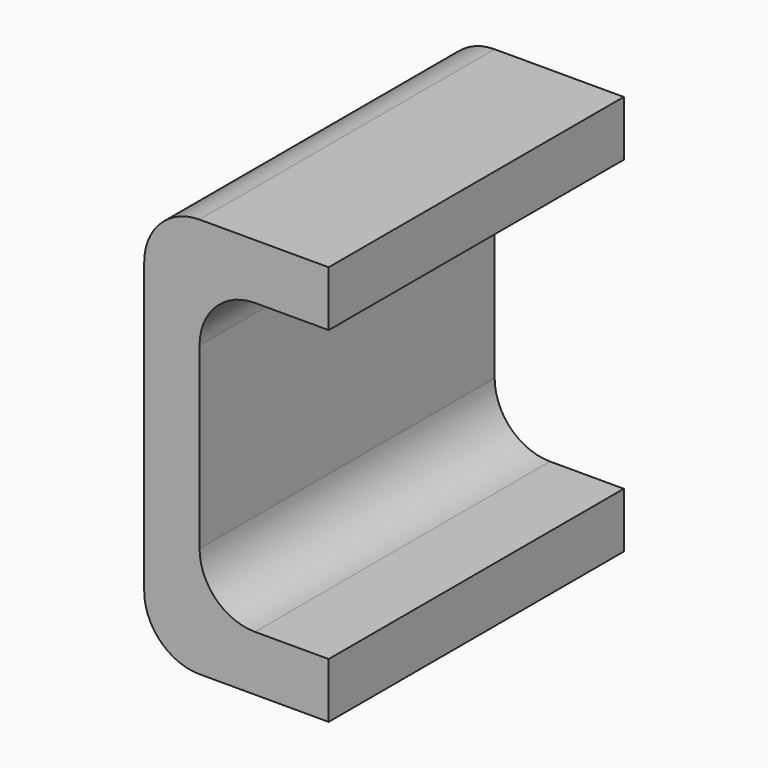
from build123d import *

# Parameters (mm, degrees)
FILLET_R    = 3
FILLET001_R = 3
FILLET002_R = 3
FILLET003_R = 3


with BuildPart() as part:
    # Sweep: sweep along a path in Sketch005
    with BuildLine(Plane.XY) as sweep_path:
        Line((-30, 10), (-30, -10))
    # Sketch004 → Sweep (sweep)
    with BuildSketch(Plane.XZ):
        Polygon((-29.5, 25.7), (-39.5, 25.7), (-39.5, 4), (-29.5, 4), (-29.5, 7), (-36.5, 7), (-36.5, 22.7), (-29.5, 22.7), align=None)
    sweep(path=sweep_path.line)

    # Fillet
    fillet_edges = [part.edges().sort_by_distance(p)[0] for p in [
        (-39.5, 0, 25.7),
    ]]
    fillet(fillet_edges, radius=FILLET_R)

    # Fillet001
    fillet001_edges = [part.edges().sort_by_distance(p)[0] for p in [
        (-39.5, 0, 4),
    ]]
    fillet(fillet001_edges, radius=FILLET001_R)

    # Fillet002
    fillet002_edges = [part.edges().sort_by_distance(p)[0] for p in [
        (-36.5, 0, 7),
    ]]
    fillet(fillet002_edges, radius=FILLET002_R)

    # Fillet003
    fillet003_edges = [part.edges().sort_by_distance(p)[0] for p in [
        (-36.5, 0, 22.7),
    ]]
    fillet(fillet003_edges, radius=FILLET003_R)


solid = part.part
